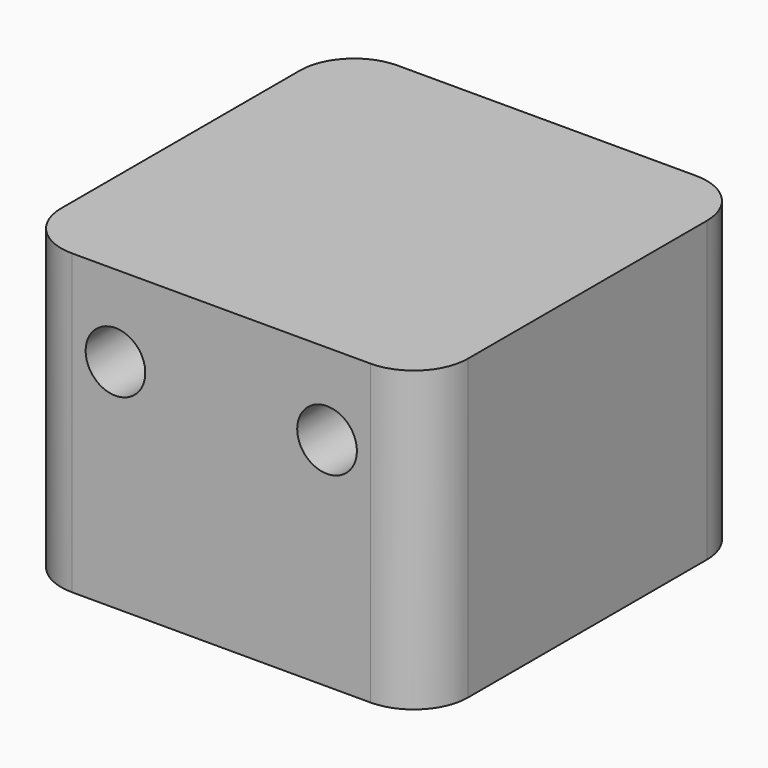
from build123d import *

# Parameters (mm, degrees)
F0_W     = 19.05
F0_H     = 15.748
F0_R     = 3.048
F0_H_2   = 3.302
F1_DEPTH = 13.97
F2_R     = 2.54
F3_R     = 1.397
F4_DEPTH = 25.4
F5_R     = 3.048
F6_DEPTH = 3.302


with BuildPart() as f1:
    # F0 (on Top) → F1 (new body)
    with BuildSketch(Plane.XY):
        with Locations((0, -1.651)):
            Rectangle(F0_W, F0_H)
        Circle(F0_R, mode=Mode.SUBTRACT)
        with Locations((0, 7.874)):
            Rectangle(F0_W, F0_H_2)
    extrude(amount=F1_DEPTH)

    # F2
    f2_edges = [f1.edges().sort_by_distance(p)[0] for p in [
        (9.525, 9.525, 6.985),
        (-9.525, 9.525, 6.985),
        (-9.525, -9.525, 6.985),
        (9.525, -9.525, 6.985),
    ]]
    fillet(f2_edges, radius=F2_R)

    # F3 (on face) → F4 (cut)
    with BuildSketch(Plane(origin=(0, 9.525, 0), x_dir=(-1, 0, 0), z_dir=(0, 1, 0))):
        with BuildLine():
            ThreePointArc((3.556, 10.16), (4.953, 8.763), (6.35, 10.16))
            ThreePointArc((6.35, 10.16), (4.953, 11.557), (3.556, 10.16))
        make_face()
        with Locations((-4.953, 10.16)):
            Circle(F3_R)
    extrude(amount=-F4_DEPTH, mode=Mode.SUBTRACT)

    # F5 (on face) → F6 (join)
    with BuildSketch(Plane.XY.offset(13.97)):
        Circle(F5_R)
    extrude(amount=-F6_DEPTH)


solid = f1.part
